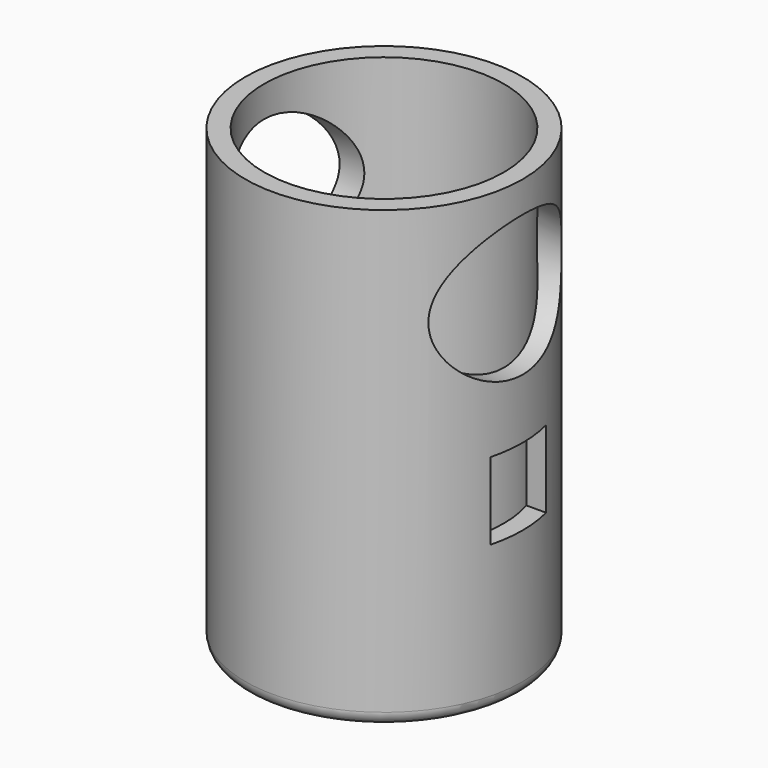
from build123d import *

# Parameters (mm, degrees)
F0_R     = 6.35
F1_DEPTH = 10.4394
F2_R     = 5.4864
F3_DEPTH = 19.2278
F4_W     = 3.175
F4_H     = 3.5306
F5_DEPTH = 12.7
F7_DEPTH = 12.7
F8_R     = 0.635


with BuildPart() as f1:
    # F0 (on Top) → F1 (new body, symmetric)
    with BuildSketch(Plane.XY):
        Circle(F0_R)
    extrude(amount=F1_DEPTH, both=True)

    # F2 (on face) → F3 (cut)
    with BuildSketch(Plane.XY.offset(10.4394)):
        Circle(F2_R)
    extrude(amount=-F3_DEPTH, mode=Mode.SUBTRACT)

    # F4 (on Right) → F5 (cut, symmetric)
    with BuildSketch(Plane.YZ):
        with Locations((0, -1.9431)):
            Rectangle(F4_W, F4_H)
    extrude(amount=F5_DEPTH, both=True, mode=Mode.SUBTRACT)

    # F6 (on Right) → F7 (cut, symmetric)
    with BuildSketch(Plane.YZ):
        with BuildLine():
            add(Edge.make_bspline(
                [(0, 9.017), (-6.599114, 9.017), (-3.299557, 4.1783), (0, -0.6604), (3.299557, 4.1783), (6.599114, 9.017), (0, 9.017)],
                knots=[4.712389, 4.712389, 4.712389, 6.806784, 6.806784, 8.901179, 8.901179, 10.995574, 10.995574, 10.995574], degree=2, weights=[1, 0.5, 1, 0.5, 1, 0.5, 1]))
        make_face()
    extrude(amount=F7_DEPTH, both=True, mode=Mode.SUBTRACT)

    # F8
    f8_edges = [f1.edges().sort_by_distance(p)[0] for p in [
        (-6.35, 0, -10.4394),
    ]]
    fillet(f8_edges, radius=F8_R)


solid = f1.part
